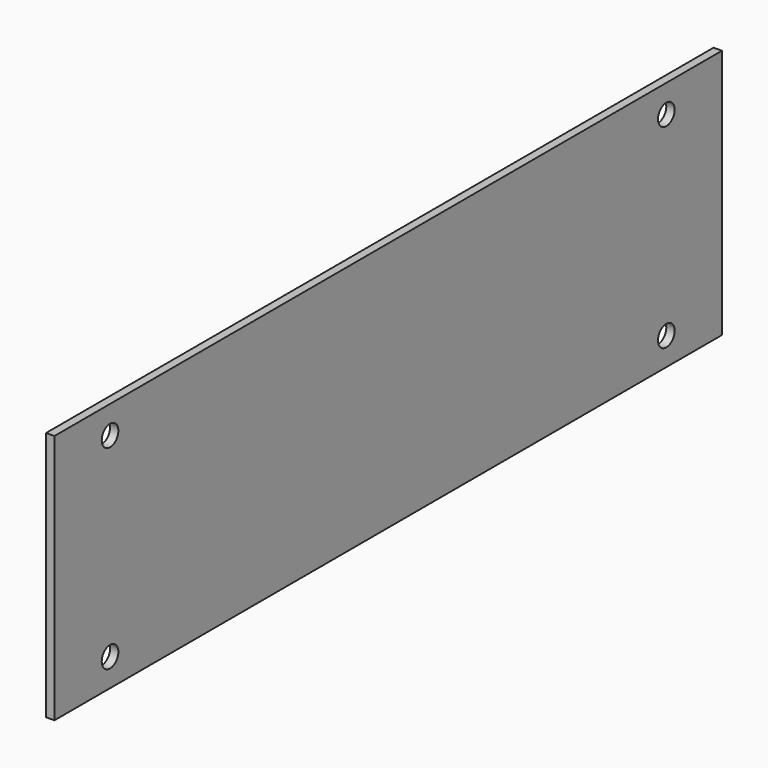
from build123d import *

# Parameters (mm, degrees)
F0_W     = 152.4
F0_H     = 45.72
F0_W_2   = 127
F0_H_2   = 35.56
F1_DEPTH = 1.524
F2_D     = 3.7973


with BuildPart() as f1:
    # F0 (on Right) → F1 (new body)
    with BuildSketch(Plane.YZ):
        Rectangle(F0_W, F0_H)
        Rectangle(F0_W_2, F0_H_2, mode=Mode.SUBTRACT)
        Rectangle(F0_W_2, F0_H_2)
    extrude(amount=F1_DEPTH)

    # F2 (through all)
    with Locations(Plane(origin=(0, 0, 0), x_dir=(0, 1, 0), z_dir=(-1, 0, 0))):
        with Locations((-63.5, -17.78), (63.5, -17.78), (63.5, 17.78), (-63.5, 17.78)):
            Hole(F2_D / 2)


solid = f1.part
